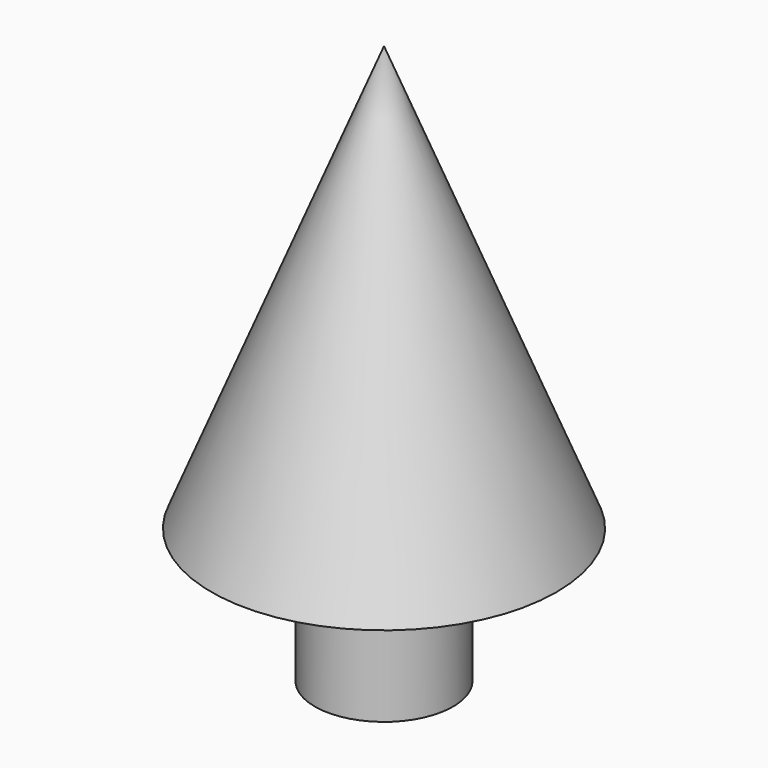
from build123d import *

# Parameters (mm, degrees)
F3_D     = 2.2606
F3_DEPTH = 14.605
F3_TIP   = 0.6791527577


with BuildPart() as f1:
    # F0 (on Front) → F1 (revolve)
    with BuildSketch(Plane.XZ):
        Polygon((0, 0), (0, 19.4818), (-7.9248, 0), (-3.175, 0), (-3.175, -6.1722), (0, -6.1722), align=None)
    revolve(axis=Axis((0, 0, 9.7409), (0, 0, 1)))

    # F3
    with Locations(Plane(origin=(0, 0, -6.1722), x_dir=(1, 0, 0), z_dir=(0, 0, -1))):
        with Locations((0, 0)):
            Hole(F3_D / 2, depth=F3_DEPTH)
            with Locations((0, 0, -(F3_DEPTH + F3_TIP / 2))):  # 118° drill point
                Cone(0, F3_D / 2, F3_TIP, mode=Mode.SUBTRACT)


solid = f1.part
